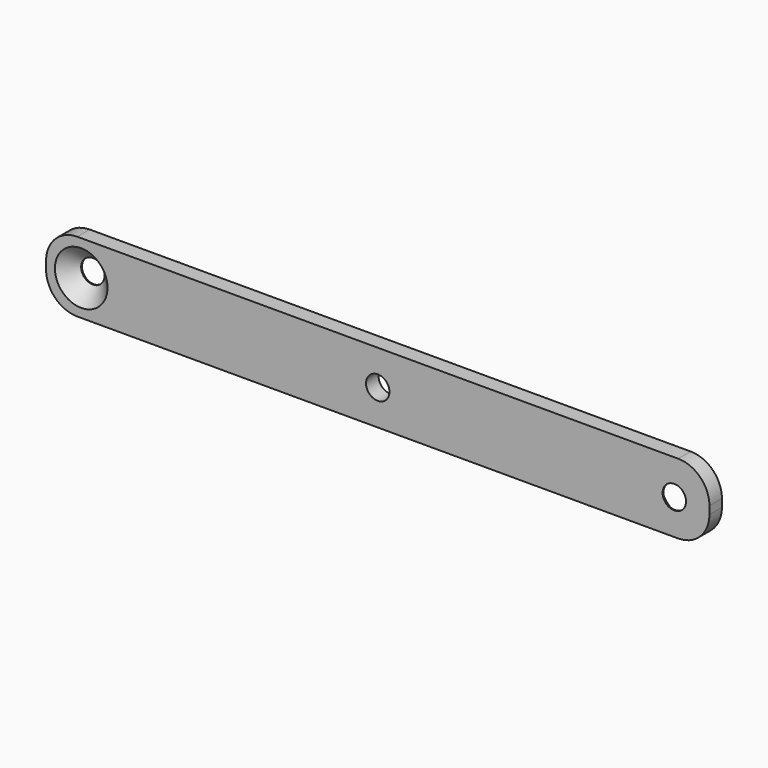
from build123d import *

# Parameters (mm, degrees)
F0_W     = 85
F0_H     = 9
F0_R     = 1.5
F1_DEPTH = 2
F2_R     = 4
F3_SIZE  = 1.87


with BuildPart() as f1:
    # F0 (on Front) → F1 (new body)
    with BuildSketch(Plane.XZ):
        Rectangle(F0_W, F0_H)
        with Locations((-38, 0)):
            Circle(F0_R, mode=Mode.SUBTRACT)
        Circle(F0_R, mode=Mode.SUBTRACT)
        with Locations((38, 0)):
            Circle(F0_R, mode=Mode.SUBTRACT)
    extrude(amount=F1_DEPTH)

    # F2
    f2_edges = [f1.edges().sort_by_distance(p)[0] for p in [
        (-42.5, -1, 4.5),
        (-42.5, -1, -4.5),
        (42.5, -1, -4.5),
        (42.5, -1, 4.5),
    ]]
    fillet(f2_edges, radius=F2_R)

    # F3
    f3_edges = [f1.edges().sort_by_distance(p)[0] for p in [
        (-39.5, -2, 0),
        (36.5, 0, 0),
    ]]
    chamfer(f3_edges, length=F3_SIZE)


solid = f1.part
